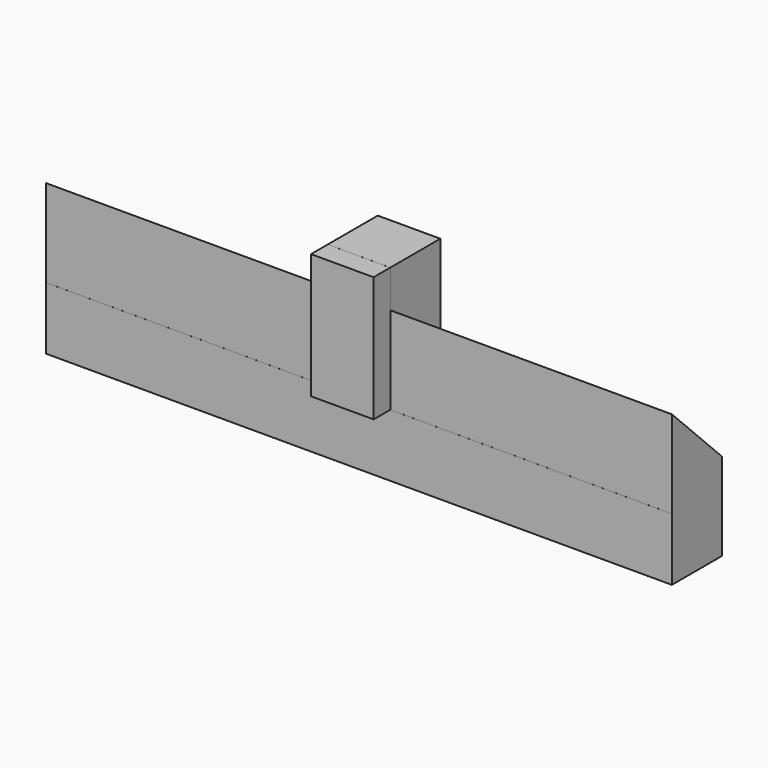
from build123d import *

# Parameters (mm, degrees)
F1_DEPTH = 250
F2_DEPTH = 25


with BuildPart() as f1:
    # F0 (on Right) → F1 (new body, symmetric)
    with BuildSketch(Plane.YZ):
        Polygon((25, -75), (25, -5), (-24.982929, 44.982929), (-24.982929, -25), (-25, -25), (-25, -75), align=None)
    extrude(amount=F1_DEPTH, both=True)


with BuildPart() as f2:
    # F0 (on Right) → F2 (new body, symmetric)
    with BuildSketch(Plane.YZ):
        Polygon((25, -5), (25, 75), (-24.982929, 75), (-24.982929, 44.982929), align=None)
        Polygon((-25, 45), (-25, 75), (-41.662153, 75), (-41.662153, -25), (-25, -25), align=None)
    extrude(amount=F2_DEPTH, both=True)


solid = Compound([f1.part, f2.part])
